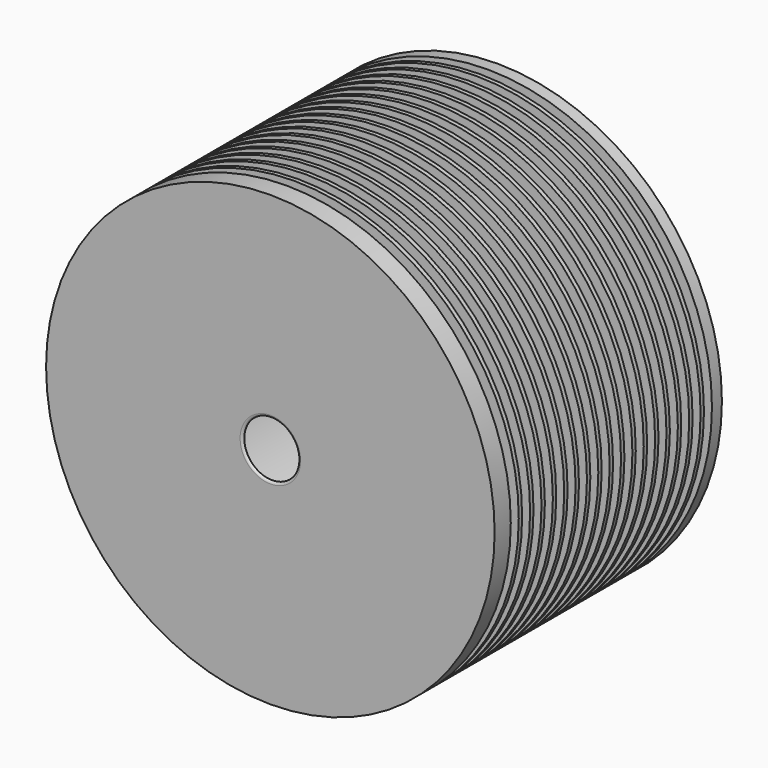
from build123d import *


with BuildPart() as f1:
    # F0 (on Right) → F1 (revolve)
    with BuildSketch(Plane.YZ):
        with BuildLine():
            Line((-105.9, 90), (-114, 90))
            Line((-114, 90), (-114, 50))
            Line((-114, 50), (-114, 12.144507))
            ThreePointArc((-114, 12.144507), (-113.756607, 11.490637), (-113.144908, 11.155062))
            ThreePointArc((-113.144908, 11.155062), (-112.676457, 12.134173), (-112.392067, 13.18166))
            Line((-112.392067, 13.18166), (-106.628541, 45.868241))
            ThreePointArc((-106.628541, 45.868241), (-104.91844, 48.830222), (-101.704502, 50))
            Line((-101.704502, 50), (0, 50))
            Line((0, 50), (0, 90))
            Line((0, 90), (-5, 90))
            Line((-5, 90), (-5, 52.5))
            Line((-5, 52.5), (-9, 52.5))
            Line((-9, 52.5), (-9, 90))
            Line((-9, 90), (-10.7, 90))
            Line((-10.7, 90), (-10.7, 52.5))
            Line((-10.7, 52.5), (-14.7, 52.5))
            Line((-14.7, 52.5), (-14.7, 90))
            Line((-14.7, 90), (-16.4, 90))
            Line((-16.4, 90), (-16.4, 52.5))
            Line((-16.4, 52.5), (-20.4, 52.5))
            Line((-20.4, 52.5), (-20.4, 90))
            Line((-20.4, 90), (-22.1, 90))
            Line((-22.1, 90), (-22.1, 52.5))
            Line((-22.1, 52.5), (-26.1, 52.5))
            Line((-26.1, 52.5), (-26.1, 90))
            Line((-26.1, 90), (-27.8, 90))
            Line((-27.8, 90), (-27.8, 52.5))
            Line((-27.8, 52.5), (-31.8, 52.5))
            Line((-31.8, 52.5), (-31.8, 90))
            Line((-31.8, 90), (-33.5, 90))
            Line((-33.5, 90), (-33.5, 52.5))
            Line((-33.5, 52.5), (-37.5, 52.5))
            Line((-37.5, 52.5), (-37.5, 90))
            Line((-37.5, 90), (-39.2, 90))
            Line((-39.2, 90), (-39.2, 52.5))
            Line((-39.2, 52.5), (-43.2, 52.5))
            Line((-43.2, 52.5), (-43.2, 90))
            Line((-43.2, 90), (-44.9, 90))
            Line((-44.9, 90), (-44.9, 52.5))
            Line((-44.9, 52.5), (-48.9, 52.5))
            Line((-48.9, 52.5), (-48.9, 90))
            Line((-48.9, 90), (-50.6, 90))
            Line((-50.6, 90), (-50.6, 52.5))
            Line((-50.6, 52.5), (-54.6, 52.5))
            Line((-54.6, 52.5), (-54.6, 90))
            Line((-54.6, 90), (-56.3, 90))
            Line((-56.3, 90), (-56.3, 52.5))
            Line((-56.3, 52.5), (-60.3, 52.5))
            Line((-60.3, 52.5), (-60.3, 90))
            Line((-60.3, 90), (-62, 90))
            Line((-62, 90), (-62, 52.5))
            Line((-62, 52.5), (-66, 52.5))
            Line((-66, 52.5), (-66, 90))
            Line((-66, 90), (-67.7, 90))
            Line((-67.7, 90), (-67.7, 52.5))
            Line((-67.7, 52.5), (-71.7, 52.5))
            Line((-71.7, 52.5), (-71.7, 90))
            Line((-71.7, 90), (-73.4, 90))
            Line((-73.4, 90), (-73.4, 52.5))
            Line((-73.4, 52.5), (-77.4, 52.5))
            Line((-77.4, 52.5), (-77.4, 90))
            Line((-77.4, 90), (-79.1, 90))
            Line((-79.1, 90), (-79.1, 52.5))
            Line((-79.1, 52.5), (-83.1, 52.5))
            Line((-83.1, 52.5), (-83.1, 90))
            Line((-83.1, 90), (-84.8, 90))
            Line((-84.8, 90), (-84.8, 52.5))
            Line((-84.8, 52.5), (-88.8, 52.5))
            Line((-88.8, 52.5), (-88.8, 90))
            Line((-88.8, 90), (-90.5, 90))
            Line((-90.5, 90), (-90.5, 52.5))
            Line((-90.5, 52.5), (-94.5, 52.5))
            Line((-94.5, 52.5), (-94.5, 90))
            Line((-94.5, 90), (-96.2, 90))
            Line((-96.2, 90), (-96.2, 52.5))
            Line((-96.2, 52.5), (-100.2, 52.5))
            Line((-100.2, 52.5), (-100.2, 90))
            Line((-100.2, 90), (-101.9, 90))
            Line((-101.9, 90), (-101.9, 52.5))
            Line((-101.9, 52.5), (-105.9, 52.5))
            Line((-105.9, 52.5), (-105.9, 90))
        make_face()
    revolve(axis=Axis((0, -6.452899, 0), (0, -1, 0)))


solid = f1.part
